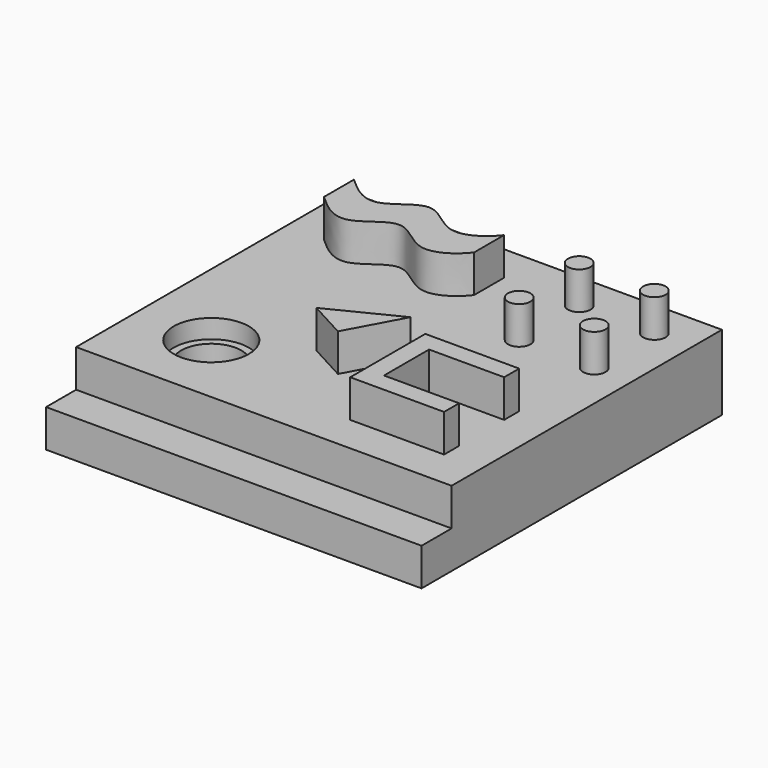
from build123d import *

# Parameters (mm, degrees)
F0_W      = 50
F0_H      = 50
F1_DEPTH  = 5
F2_W      = 50
F2_H      = 45
F3_DEPTH  = 5
F4_R      = 5
F4_R_2    = 4
F5_DEPTH  = 2.5
F6_DEPTH  = 5
F7_R      = 1.5
F8_DEPTH  = 5
F10_DEPTH = 5
F12_DEPTH = 5
F13_W     = 10
F13_H     = 2.5
F14_DEPTH = 5


with BuildPart() as f1:
    # F0 (on Top) → F1 (new body)
    with BuildSketch(Plane.XY):
        with Locations((-25, 25)):
            Rectangle(F0_W, F0_H)
    extrude(amount=F1_DEPTH)

    # F2 (on face) → F3 (join)
    with BuildSketch(Plane.XY.offset(5)):
        with Locations((-25, 27.5)):
            Rectangle(F2_W, F2_H)
    extrude(amount=F3_DEPTH)

    # F4 (on face) → F5 (cut)
    with BuildSketch(Plane.XY.offset(10)):
        with Locations((-40, 15)):
            Circle(F4_R)
        with Locations((-40, 15)):
            Circle(F4_R_2, mode=Mode.SUBTRACT)
    extrude(amount=-F5_DEPTH, mode=Mode.SUBTRACT)

    # F6 (cut): a face of the model
    f6_faces = [f1.faces().sort_by_distance(p)[0] for p in [
        (-40, 15, 10),
    ]]
    extrude(f6_faces, amount=-F6_DEPTH, mode=Mode.SUBTRACT)

    # F7 (on face) → F8 (join)
    with BuildSketch(Plane.XY.offset(10)):
        with Locations((-15, 35)):
            Circle(F7_R)
        with Locations((-5, 35)):
            Circle(F7_R)
        with Locations((-15, 45)):
            Circle(F7_R)
        with Locations((-5, 45)):
            Circle(F7_R)
    extrude(amount=F8_DEPTH)

    # F9 (on face) → F10 (join)
    with BuildSketch(Plane.XY.offset(10)):
        with BuildLine():
            add(Edge.make_bspline(
                [(-45, 45), (-43.3724021193, 43.4960327946), (-39.9998361972, 40.752966518), (-34.9419701311, 47.120567995), (-30.2322832786, 40.764761502), (-26.1633589291, 43.4685111653), (-25, 45)],
                knots=[0, 0, 0, 0, 0.25, 0.5, 0.75, 1, 1, 1, 1], degree=3))
            Line((-45, 45), (-45, 40))
            add(Edge.make_bspline(
                [(-45, 40), (-43.3724021193, 38.4960327946), (-39.9998361972, 35.752966518), (-34.9419701311, 42.120567995), (-30.2322832786, 35.764761502), (-26.1633589291, 38.4685111653), (-25, 40)],
                knots=[0, 0, 0, 0, 0.25, 0.5, 0.75, 1, 1, 1, 1], degree=3))
            Line((-25, 40), (-25, 45))
        make_face()
    extrude(amount=F10_DEPTH)

    # F11 (on face) → F12 (join)
    with BuildSketch(Plane.XY.offset(10)):
        Polygon((-21.0567055787, 24.4740903986), (-30, 20), (-24.9556113431, 17.269956793), align=None)
    extrude(amount=F12_DEPTH)

    # F13 (on face) → F14 (join)
    with BuildSketch(Plane.XY.offset(10)):
        with Locations((-10, 21.25)):
            Rectangle(F13_W, F13_H)
        Polygon((-15, 10), (-15, 12.5), (-15, 20), (-15, 22.5), (-17.5, 22.5), (-17.5, 10), align=None)
        with Locations((-10, 11.25)):
            Rectangle(F13_W, F13_H)
    extrude(amount=F14_DEPTH)


solid = f1.part
